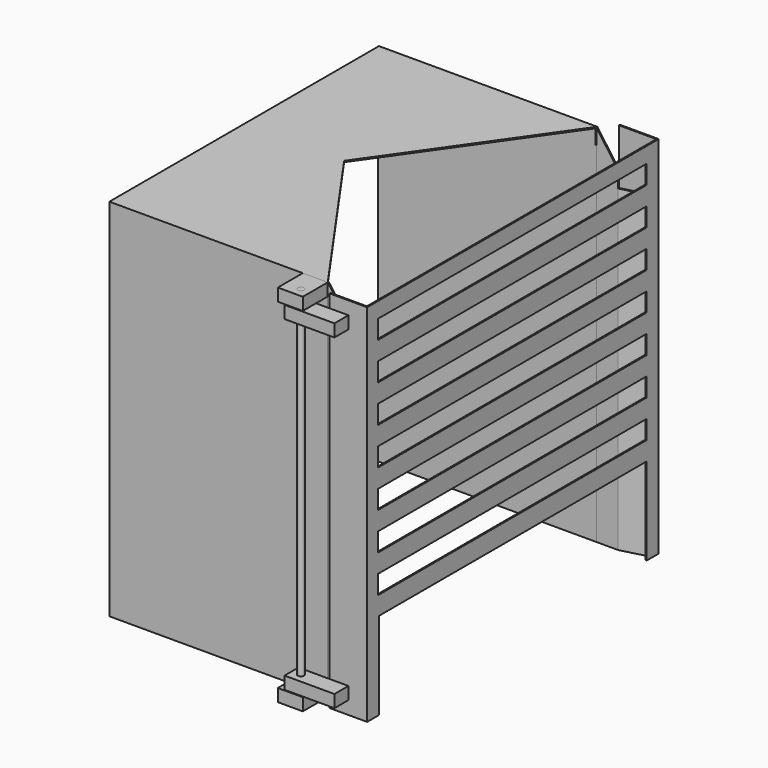
from build123d import *

# Parameters (mm, degrees)
F0_W      = 540
F0_H      = 585
F1_DEPTH  = 350
F2_W      = 536
F2_H      = 583
F3_DEPTH  = 350
F5_DEPTH  = 25
F7_DEPTH  = 540
F8_W      = 536
F8_H      = 585
F9_DEPTH  = 35
F12_DEPTH = 510
F15_DEPTH = 585
F16_W     = 536
F16_H     = 140
F16_W_2   = 538
F16_H_2   = 30
F17_DEPTH = 100
F18_W     = 40
F18_H     = 20
F19_DEPTH = 50
F20_R     = 5
F21_DEPTH = 585
F22_W     = 80
F22_H     = 20
F23_DEPTH = 28


with BuildPart() as f1:
    # F0 (on Right) → F1 (new body)
    with BuildSketch(Plane.YZ):
        with Locations((270, 292.5)):
            Rectangle(F0_W, F0_H)
    extrude(amount=-F1_DEPTH)

    # F2 (on face) → F3 (cut)
    with BuildSketch(Plane.YZ):
        with Locations((270, 291.5)):
            Rectangle(F2_W, F2_H)
    extrude(amount=-F3_DEPTH, mode=Mode.SUBTRACT)

    # F4 (on face) → F5 (cut)
    with BuildSketch(Plane.XY.offset(585)):
        Polygon((-189.7366596101, 270), (0, 0), (0, 540), align=None)
    extrude(amount=-F5_DEPTH, mode=Mode.SUBTRACT)


with BuildPart() as f7:
    # F6 (on face) → F7 (new body)
    with BuildSketch(Plane.XZ):
        Polygon((0, 585), (0, 0), (35, 0), (35, 536.266028276), align=None)
    extrude(amount=-F7_DEPTH)

    # F8 (on face) → F9 (cut)
    with BuildSketch(Plane.YZ.offset(35)):
        with Locations((270, 292.5)):
            Rectangle(F8_W, F8_H)
    extrude(amount=-F9_DEPTH, mode=Mode.SUBTRACT)


with BuildPart() as f12:
    # F11 (on offset) → F12 (new body)
    with BuildSketch(Plane.XY.offset(510)):
        Polygon((35, 2), (35, 0), (65.9838667697, -8), (73.7298334621, -8), align=None)
    extrude(amount=-F12_DEPTH)


with BuildPart() as f12b:
    # F11 (on offset) → F12, piece 2 (new body)
    with BuildSketch(Plane.XY.offset(510)):
        Polygon((65.9838667697, 548), (35, 540), (35, 538), (73.7298334621, 548), align=None)
    extrude(amount=-F12_DEPTH)


with BuildPart() as f15:
    # F14 (on offset) → F15 (new body)
    with BuildSketch(Plane.XY.offset(585)):
        Polygon((78.7298334621, -20), (20.7298334621, -20), (20.7298334621, -22), (80.7298334621, -22), (80.7298334621, 562), (18.7298334621, 562), (18.7298334621, 560), (78.7298334621, 560), align=None)
    extrude(amount=-F15_DEPTH)

    # F16 (on Right) → F17 (cut)
    with BuildSketch(Plane.YZ):
        with Locations((270, 70)):
            Rectangle(F16_W, F16_H)
        with Locations((269, 185)):
            Rectangle(F16_W_2, F16_H_2)
        with Locations((269, 245)):
            Rectangle(F16_W_2, F16_H_2)
        with Locations((269, 305)):
            Rectangle(F16_W_2, F16_H_2)
        with Locations((269, 365)):
            Rectangle(F16_W_2, F16_H_2)
        with Locations((269, 545)):
            Rectangle(F16_W_2, F16_H_2)
        with Locations((269, 485)):
            Rectangle(F16_W_2, F16_H_2)
        with Locations((269, 425)):
            Rectangle(F16_W_2, F16_H_2)
    extrude(amount=F17_DEPTH, mode=Mode.SUBTRACT)

    # F22 (on face) → F23 (join)
    with BuildSketch(Plane.XZ.offset(22)):
        with Locations((10.7298334621, 554)):
            Rectangle(F22_W, F22_H)
        with Locations((10.7298334621, 31)):
            Rectangle(F22_W, F22_H)
    extrude(amount=F23_DEPTH)


with BuildPart() as f19:
    # F18 (on Front) → F19 (new body)
    with BuildSketch(Plane.XZ):
        with Locations((-20, 10)):
            Rectangle(F18_W, F18_H)
    extrude(amount=F19_DEPTH)


with BuildPart() as f19b:
    # F18 (on Front) → F19, piece 2 (new body)
    with BuildSketch(Plane.XZ):
        with Locations((-20, 575)):
            Rectangle(F18_W, F18_H)
    extrude(amount=F19_DEPTH)


with BuildPart() as f21:
    # F20 (on Top) → F21 (new body)
    with BuildSketch(Plane.XY):
        with Locations((-15, -35)):
            Circle(F20_R)
    extrude(amount=F21_DEPTH)


solid = Compound([f1.part, f7.part, f12.part, f12b.part, f15.part, f19.part, f19b.part, f21.part])
